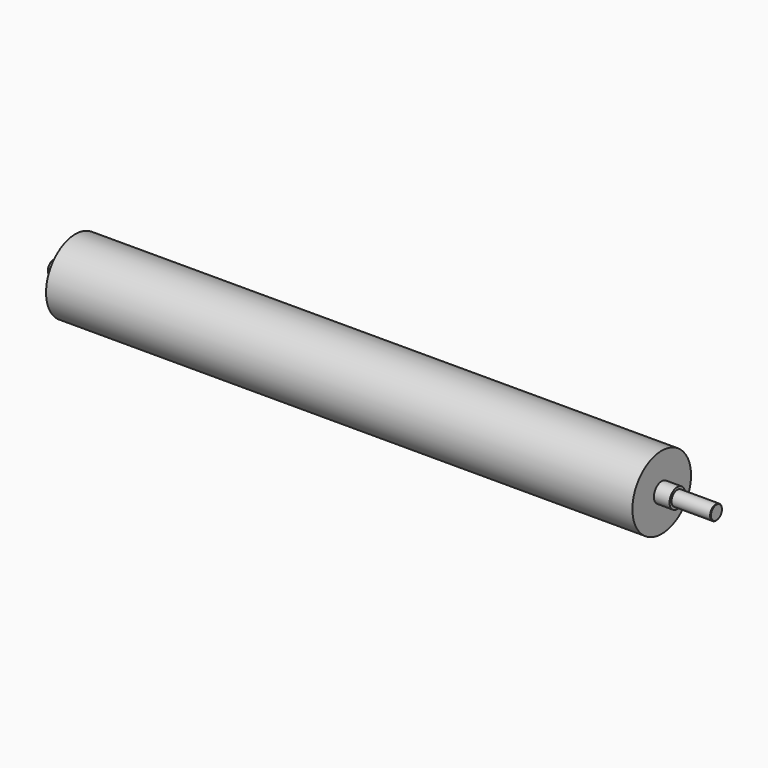
from build123d import *

# Parameters (mm, degrees)
F0_R       = 75
F1_DEPTH   = 600
F2_R       = 20
F3_DEPTH   = 150
F4_R       = 20
F5_DEPTH   = 150
F6_W       = 4.2212159717
F6_H       = 12
F7_DEPTH   = 125
F8_R       = 20
F9_DEPTH   = 182
F10_R      = 15
F11_DEPTH  = 80
F14_DEPTH  = 8.8
F16_R      = 30
F17_DEPTH  = 25
F18_DEPTH  = 67
F19_SIZE   = 1
F19_2_SIZE = 1


with BuildPart() as f1:
    # F0 (on Right) → F1 (new body, symmetric)
    with BuildSketch(Plane.YZ):
        Circle(F0_R)
    extrude(amount=F1_DEPTH, both=True)

    # F2 (on face) → F3 (cut)
    with BuildSketch(Plane.YZ.offset(600)):
        Circle(F2_R)
    extrude(amount=-F3_DEPTH, mode=Mode.SUBTRACT)

    # F4 (on face) → F5 (cut)
    with BuildSketch(Plane(origin=(-600, 0, 0), x_dir=(0, -1, 0), z_dir=(-1, 0, 0))):
        Circle(F4_R)
    extrude(amount=-F5_DEPTH, mode=Mode.SUBTRACT)

    # F6 (on face) → F7 (cut)
    with BuildSketch(Plane.YZ.offset(600)):
        with Locations((21.1893920142, 0)):
            Rectangle(F6_W, F6_H)
    extrude(amount=-F7_DEPTH, mode=Mode.SUBTRACT)


with BuildPart() as f9:
    # F8 (on face) → F9 (new body)
    with BuildSketch(Plane.YZ.offset(450)):
        Circle(F8_R)
    extrude(amount=F9_DEPTH)

    # F10 (on face) → F11 (join)
    with BuildSketch(Plane.YZ.offset(632)):
        Circle(F10_R)
    extrude(amount=F11_DEPTH)


with BuildPart() as f12_1:
    # F12: instance of F9
    add(f9.part.mirror(Plane.YZ))

    # F18 (cut): a face of the model
    f18_faces = [f12_1.faces().sort_by_distance(p)[0] for p in [
        (-712, 0, 0),
    ]]
    extrude(f18_faces, amount=-F18_DEPTH, mode=Mode.SUBTRACT)

    # F19
    f19_edges = [f12_1.edges().sort_by_distance(p)[0] for p in [
        (-645, -15, 0),
    ]]
    chamfer(f19_edges, length=F19_SIZE)


with BuildPart() as f14_tool:
    # F13 (on face) → F14 (new body)
    with BuildSketch(Plane.XZ.offset(-23.3)):
        with BuildLine():
            ThreePointArc((475, 6), (469, 0), (475, -6))
            Line((475, -6), (575, -6))
            ThreePointArc((575, -6), (581, 0), (575, 6))
            Line((575, 6), (475, 6))
        make_face()
    extrude(amount=F14_DEPTH)


with BuildPart() as f1_1:
    add(f1.part)

    # F14: cut by f14_tool
    add(f14_tool.part, mode=Mode.SUBTRACT)

    # F16 (on offset) → F17 (cut)
    with BuildSketch(Plane.YZ.offset(475)):
        Circle(F16_R)
    extrude(amount=-F17_DEPTH, mode=Mode.SUBTRACT)


with BuildPart() as f9_1:
    add(f9.part)

    # F14: cut by f14_tool
    add(f14_tool.part, mode=Mode.SUBTRACT)

    # F19#2
    f19_2_edges = [f9_1.edges().sort_by_distance(p)[0] for p in [
        (712, -15, 0),
    ]]
    chamfer(f19_2_edges, length=F19_2_SIZE)


solid = Compound([f12_1.part, f1_1.part, f9_1.part])
